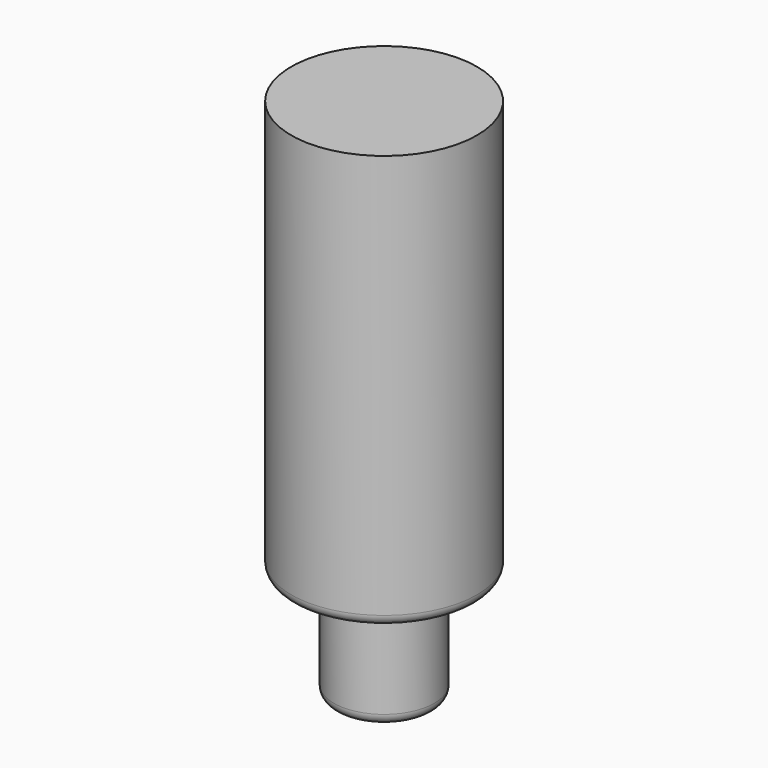
from build123d import *

# Parameters (mm, degrees)
SKETCH_R     = 8.5
PAD_DEPTH    = 38
SKETCH001_R  = 4.6
PAD001_DEPTH = 10
FILLET_R     = 1


with BuildPart() as part:
    # Sketch → Pad (new body)
    with BuildSketch(Plane.XY):
        Circle(SKETCH_R)
    extrude(amount=PAD_DEPTH)

    # Sketch001 (on Face2 of Pad) → Pad001 (join)
    with BuildSketch(Plane(origin=(0, 0, 0), x_dir=(1, 0, 0), z_dir=(0, 0, -1))):
        Circle(SKETCH001_R)
    extrude(amount=PAD001_DEPTH)

    # Fillet
    fillet_edges = [part.edges().sort_by_distance(p)[0] for p in [
        (-4.6, 0, -10),
        (-8.5, 0, 0),
    ]]
    fillet(fillet_edges, radius=FILLET_R)


solid = part.part
